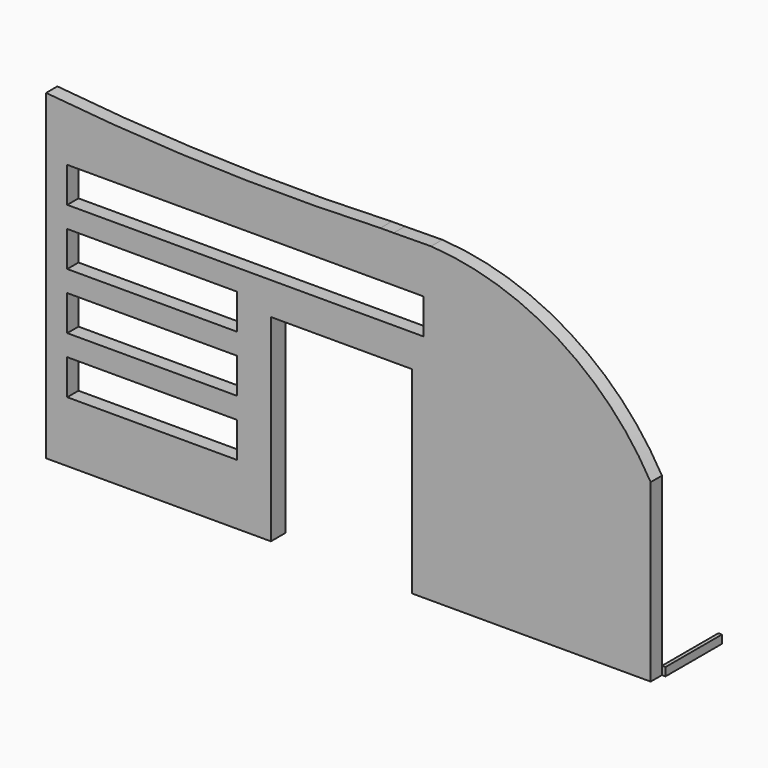
from build123d import *

# Parameters (mm, degrees)
F1_DEPTH = 100
F2_DEPTH = 130
F3_W     = 500
F3_H     = 58.3985337053
F4_DEPTH = 25
F5_DEPTH = 100
F6_W     = 2523.6582771599
F6_H     = 250
F6_W_2   = 1204.7804204285
F7_DEPTH = 2010


with BuildPart() as f1:
    # F0 (on Front) → F1 (new body)
    with BuildSketch(Plane.XZ):
        with BuildLine():
            Line((1976.281786722, -1319.9909218584), (1976.281786722, -75.0071237824))
            ThreePointArc((1976.281786722, -75.0071237824), (1320.0925674661, 604.9370809418), (419.3822159536, 890.645456185))
            Line((419.3822159536, 890.645456185), (154.4708479568, 887.7100799802))
            Line((154.4708479568, 887.7100799802), (60.6627279326, 887.7100799802))
            ThreePointArc((60.6627279326, 887.7100799802), (-1175.980197838, 883.3175253267), (-2409.5215050042, 970.9580633765))
            Line((-2409.5215050042, 970.9580633765), (-2409.5215050042, -1319.9909218584))
            Line((-2409.5215050042, -1319.9909218584), (-804.7410845757, -1319.9909218584))
            Line((-804.7410845757, -1319.9909218584), (-804.7410845757, 160.0090781416))
            Line((-804.7410845757, 160.0090781416), (-715.8632278442, 160.0090781416))
            Line((-715.8632278442, 160.0090781416), (284.1367721558, 160.0090781416))
            Line((284.1367721558, 160.0090781416), (364.1367721558, 160.0090781416))
            Line((364.1367721558, 160.0090781416), (364.1367721558, -1319.9909218584))
            Line((364.1367721558, -1319.9909218584), (1976.281786722, -1319.9909218584))
        make_face()
    extrude(amount=-F1_DEPTH)

    # F0 (on Front) → F2 (join)
    with BuildSketch(Plane.XZ):
        Polygon((284.1367721558, -1319.9909218584), (364.1367721558, -1319.9909218584), (364.1367721558, 160.0090781416), (284.1367721558, 160.0090781416), (-715.8632278442, 160.0090781416), (-804.7410845757, 160.0090781416), (-804.7410845757, -1319.9909218584), (-715.8632278442, -1319.9909218584), (-715.8632278442, 80.0090781416), (-225.8632278442, 80.0090781416), (-215.8632278442, 80.0090781416), (-205.8632278442, 80.0090781416), (284.1367721558, 80.0090781416), align=None)
    extrude(amount=-F2_DEPTH)

    # F5 (cut): a face of the model
    f5_faces = [f1.faces().sort_by_distance(p)[0] for p in [
        (-2409.5215050042, 50, -174.5164292409),
    ]]
    extrude(f5_faces, amount=-F5_DEPTH, mode=Mode.SUBTRACT)

    # F6 (on face) → F7 (cut)
    with BuildSketch(Plane(origin=(0, 100, 0), x_dir=(-1, 0, 0), z_dir=(0, 1, 0))):
        with Locations((897.6923664242, 435.3581443429)):
            Rectangle(F6_W, F6_H)
        with Locations((1557.1312947899, 35.0090781416)):
            Rectangle(F6_W_2, F6_H)
        with Locations((1557.1312947899, -364.9909218584)):
            Rectangle(F6_W_2, F6_H)
        with Locations((1557.1312947899, -764.9909218584)):
            Rectangle(F6_W_2, F6_H)
    extrude(amount=-F7_DEPTH, mode=Mode.SUBTRACT)


with BuildPart() as f4:
    # F3 (on face) → F4 (new body)
    with BuildSketch(Plane.YZ.offset(1976.281786722)):
        with Locations((350, -1290.7916550057)):
            Rectangle(F3_W, F3_H)
    extrude(amount=F4_DEPTH)


solid = Compound([f1.part, f4.part])
